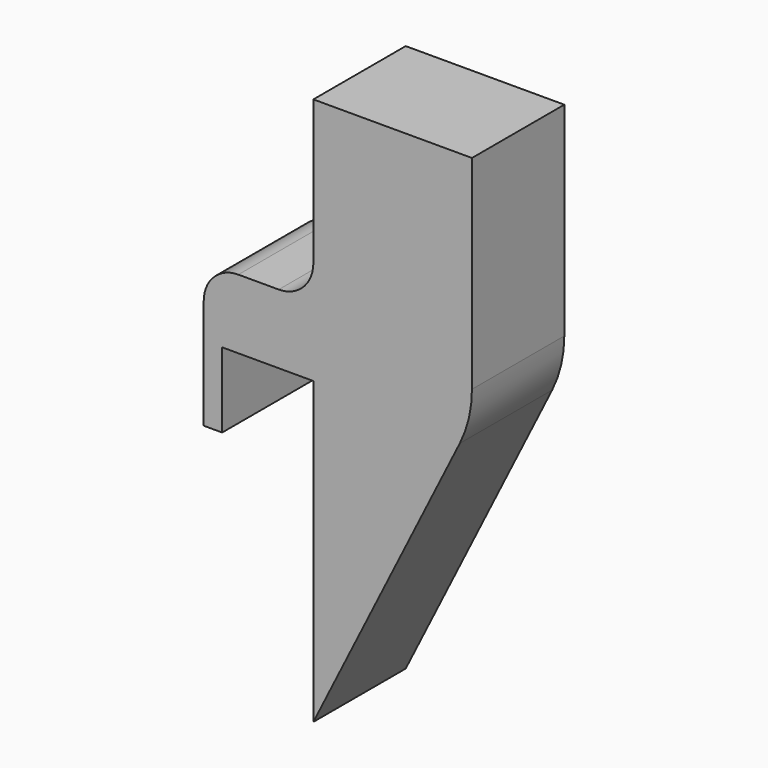
from build123d import *

# Parameters (mm, degrees)
F1_DEPTH = 10


with BuildPart() as f1:
    # F0 (on Front) → F1 (new body)
    with BuildSketch(Plane.XZ):
        with BuildLine():
            Line((-7.9, 9.261436), (0, 9.261436))
            Line((0, 9.261436), (0, -16.738564))
            Line((0, -16.738564), (12.683282, 8.627999))
            ThreePointArc((12.683282, 8.627999), (13.4715, 10.802605), (13.73901, 13.100135))
            Line((13.73901, 13.100135), (13.73901, 30.739455))
            Line((13.73901, 30.739455), (0, 30.739455))
            Line((0, 30.739455), (0, 18.261436))
            ThreePointArc((0, 18.261436), (-0.87868, 16.140115), (-3, 15.261436))
            Line((-3, 15.261436), (-6.5, 15.261436))
            ThreePointArc((-6.5, 15.261436), (-8.62132, 14.382756), (-9.5, 12.261436))
            Line((-9.5, 12.261436), (-9.5, 9.261436))
            Line((-9.5, 9.261436), (-9.5, 2.761436))
            Line((-9.5, 2.761436), (-7.9, 2.761436))
            Line((-7.9, 2.761436), (-7.9, 9.261436))
        make_face()
    extrude(amount=F1_DEPTH)


solid = f1.part
